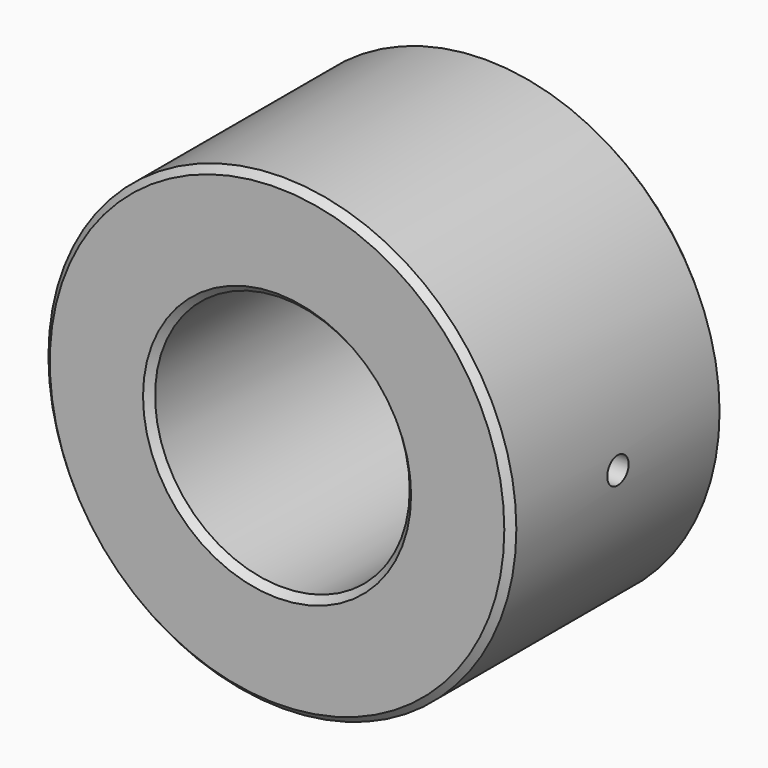
from build123d import *

# Parameters (mm, degrees)
F0_R     = 52.5
F0_R_2   = 28.575
F1_DEPTH = 60
F2_SIZE  = 1.5
F4_START = 45
F3_R     = 3
F4_DEPTH = 10


with BuildPart() as f1:
    # F0 (on Front) → F1 (new body)
    with BuildSketch(Plane.XZ):
        Circle(F0_R)
        Circle(F0_R_2, mode=Mode.SUBTRACT)
    extrude(amount=F1_DEPTH)

    # F2
    f2_edges = [f1.edges().sort_by_distance(p)[0] for p in [
        (-52.5, -60, 0),
        (-28.575, -60, 0),
        (-52.5, 0, 0),
        (-28.575, 0, 0),
    ]]
    chamfer(f2_edges, length=F2_SIZE)

    # F3 (on Right) → F4 (cut)
    with BuildSketch(Plane.YZ.offset(F4_START)):
        with Locations((-30, 0)):
            Circle(F3_R)
    extrude(amount=F4_DEPTH, mode=Mode.SUBTRACT)


solid = f1.part
